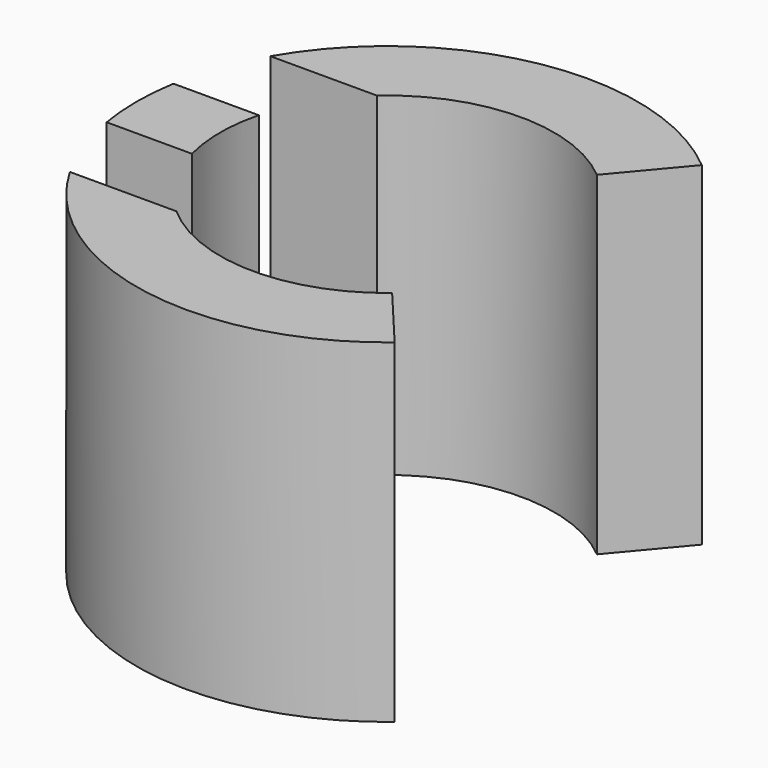
from build123d import *

# Parameters (mm, degrees)
F1_DEPTH = 25.4
F2_W     = 6.35
F2_H     = 19.05
F3_DEPTH = 25.4


with BuildPart() as f1:
    # F0 (on Top) → F1 (new body)
    with BuildSketch(Plane.XY):
        with BuildLine():
            Line((8.163403, 9.728764), (12.245104, 14.593147))
            ThreePointArc((12.245104, 14.593147), (-19.05, 0), (12.245104, -14.593147))
            Line((12.245104, -14.593147), (8.163403, -9.728764))
            ThreePointArc((8.163403, -9.728764), (-12.7, 0), (8.163403, 9.728764))
        make_face()
    extrude(amount=F1_DEPTH)

    # F2 (on Right) → F3 (cut)
    with BuildSketch(Plane.YZ):
        with Locations((6.35, 15.875)):
            Rectangle(F2_W, F2_H)
        with Locations((-6.35, 15.875)):
            Rectangle(F2_W, F2_H)
    extrude(amount=-F3_DEPTH, mode=Mode.SUBTRACT)


solid = f1.part
